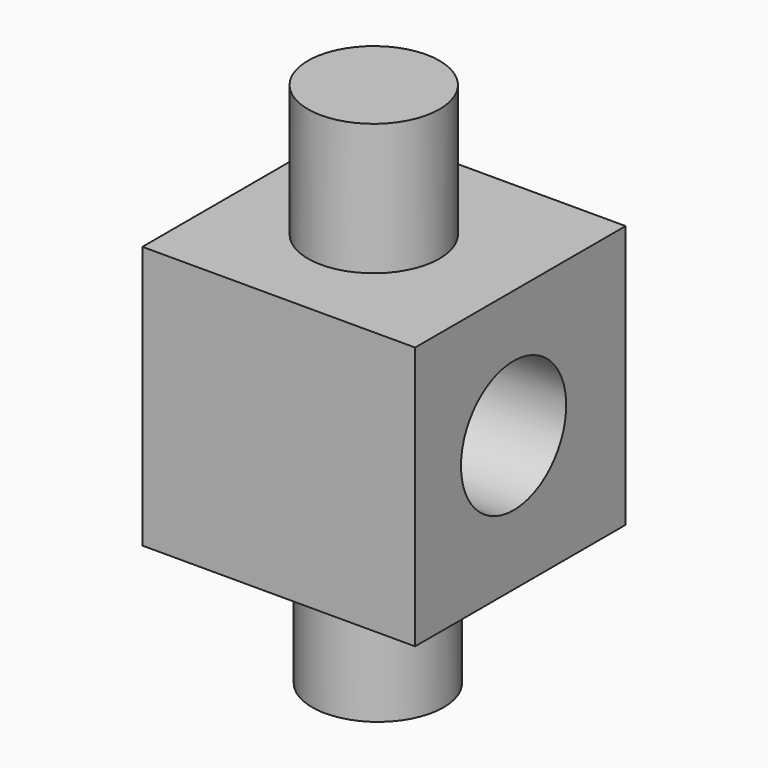
from build123d import *

# Parameters (mm, degrees)
F1_W     = 103.645719
F1_H     = 100
F2_DEPTH = 100
F6_D     = 50
F3_R     = 25
F7_DEPTH = 50
F4_R     = 25
F8_DEPTH = 50


with BuildPart() as f2:
    # F1 (on face) → F2 (new body)
    with BuildSketch(Plane.XZ):
        with Locations((51.822859, 50)):
            Rectangle(F1_W, F1_H)
    extrude(amount=F2_DEPTH)

    # F6 (through all)
    with Locations(Plane.YZ.offset(103.645719)):
        with Locations((-53.215325, 51.51242)):
            Hole(F6_D / 2)

    # F3 (on face) → F7 (join)
    with BuildSketch(Plane.XY.offset(100)):
        with Locations((48.626781, -50.881982)):
            Circle(F3_R)
    extrude(amount=F7_DEPTH)

    # F4 (on face) → F8 (join)
    with BuildSketch(Plane(origin=(0, 0, 0), x_dir=(1, 0, 0), z_dir=(0, 0, -1))):
        with Locations((49.750507, 50.30711)):
            Circle(F4_R)
    extrude(amount=F8_DEPTH)


solid = f2.part
